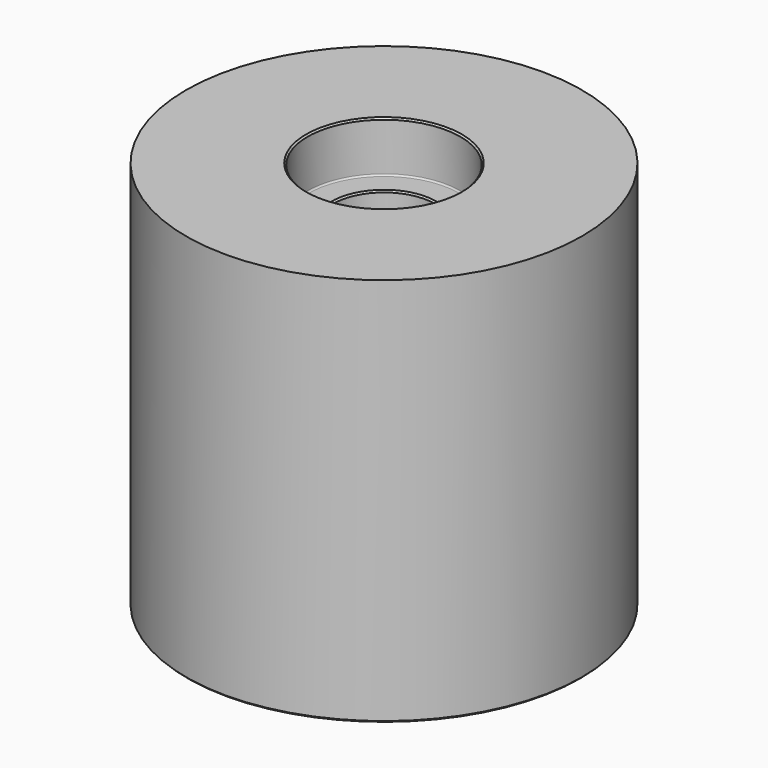
from build123d import *

# Parameters (mm, degrees)
F0_R     = 12.7
F0_R_2   = 3.255
F1_DEPTH = 25
F2_R     = 4.900418
F3_DEPTH = 3.25
F4_R     = 0.1
F5_SIZE  = 0.1


with BuildPart() as f1:
    # F0 (on Top) → F1 (new body)
    with BuildSketch(Plane.XY):
        Circle(F0_R)
        Circle(F0_R_2, mode=Mode.SUBTRACT)
    extrude(amount=-F1_DEPTH)

    # F2 (on face) → F3 (cut)
    with BuildSketch(Plane.XY):
        Circle(F2_R)
    extrude(amount=-F3_DEPTH, mode=Mode.SUBTRACT)

    # F4
    f4_edges = [f1.edges().sort_by_distance(p)[0] for p in [
        (-4.900418, 0, -3.25),
    ]]
    fillet(f4_edges, radius=F4_R)

    # F5
    f5_edges = [f1.edges().sort_by_distance(p)[0] for p in [
        (-3.255, 0, -3.25),
        (-4.900418, 0, 0),
        (-3.255, 0, -25),
        (-12.7, 0, -25),
    ]]
    chamfer(f5_edges, length=F5_SIZE)


solid = f1.part
